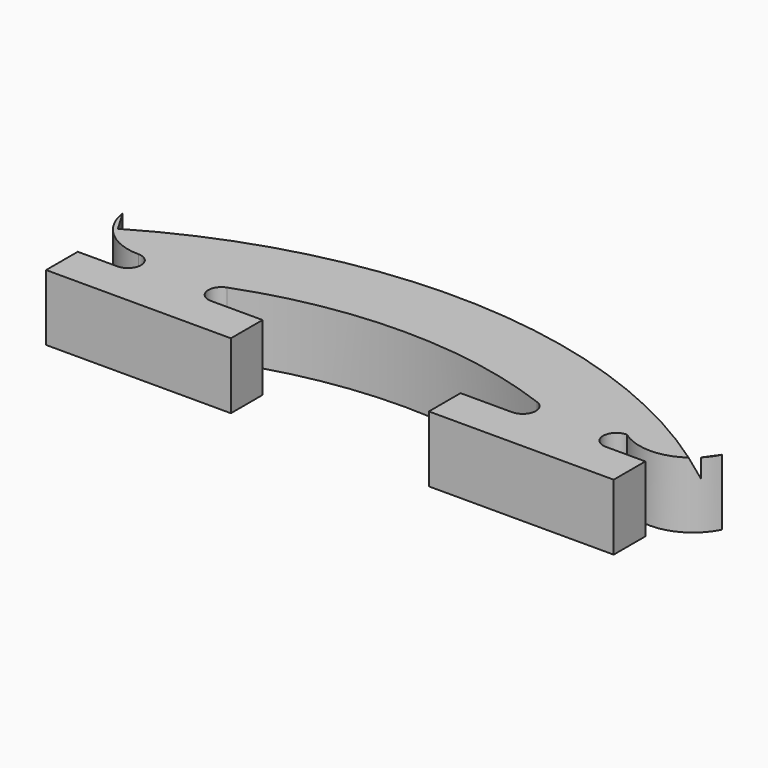
from build123d import *

# Parameters (mm, degrees)
F1_DEPTH = 5
F3_DEPTH = 25


with BuildPart() as f1:
    # F0 (on Top) → F1 (new body)
    with BuildSketch(Plane.XY):
        with BuildLine():
            Line((-23.5, 8.5), (-23.5, 0))
            Line((-23.5, 0), (23.5, 0))
            Line((23.5, 0), (23.5, 6.5))
            ThreePointArc((23.5, 6.5), (0.2962107176, 14.4609518625), (-23.5, 8.5))
        make_face()
    extrude(amount=F1_DEPTH)

    # F2 (on face) → F3 (cut)
    with BuildSketch(Plane.XY.offset(5)):
        with BuildLine():
            Line((-23.5, 0), (-22.5, 0))
            Line((-22.5, 0), (-22.5, 3))
            Line((-22.5, 3), (-19.5, 3))
            ThreePointArc((-19.5, 3), (-18.5, 4), (-19.5, 5))
            ThreePointArc((-19.5, 5), (-22.1575364532, 5.9985297678), (-23.5, 8.5))
            Line((-23.5, 8.5), (-23.5, 0))
        make_face()
        with BuildLine():
            Line((-8.5, 3), (-8.5, 0))
            Line((-8.5, 0), (6.5, 0))
            Line((6.5, 0), (6.5, 3))
            Line((6.5, 3), (10.4063445255, 3))
            ThreePointArc((10.4063445255, 3), (11.390316995, 3.8216795603), (10.7572693324, 4.9364036415))
            ThreePointArc((10.7572693324, 4.9364036415), (-1, 7.0671151221), (-12.7572693324, 4.9364036415))
            ThreePointArc((-12.7572693324, 4.9364036415), (-13.390316995, 3.8216795603), (-12.4063445255, 3))
            Line((-12.4063445255, 3), (-8.5, 3))
        make_face()
        with BuildLine():
            Line((23.5, 0), (23.5, 6.5))
            ThreePointArc((23.5, 6.5), (20.8467428507, 4.363028597), (17.5, 5))
            ThreePointArc((17.5, 5), (16.5, 4), (17.5, 3))
            Line((17.5, 3), (20.5, 3))
            Line((20.5, 3), (20.5, 0))
            Line((20.5, 0), (23.5, 0))
        make_face()
    extrude(amount=-F3_DEPTH, mode=Mode.SUBTRACT)

    # F6: sweep along a path in F6_path
    with BuildLine(Plane(origin=(-23.5, 8.5, 0), x_dir=(0, 1, 0), z_dir=(0, 0, 1))) as f6_path:
        ThreePointArc((0, 0), (5.9609518625, -23.7962107176), (-2, -47))
    # F5 (on face) → F6 (sweep, cut)
    with BuildSketch(Plane(origin=(-13.7022180635, -8.0915495232, 0), x_dir=(0.5084863558, -0.8610700471, 0), z_dir=(-0.8610700471, -0.5084863558, 0))):
        Polygon((-19.2685247607, 5), (-19.2685247607, 1), (-17.2685247607, 5), align=None)
    sweep(path=f6_path.line, mode=Mode.SUBTRACT)


solid = f1.part
